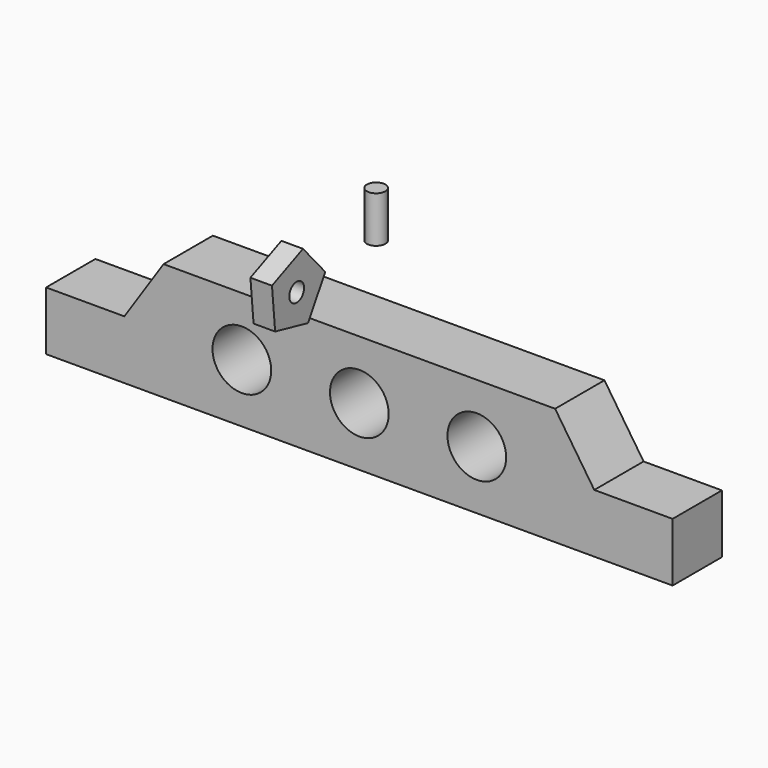
from build123d import *

# Parameters (mm, degrees)
F0_R     = 9.525
F1_DEPTH = 20
F2_R     = 3
F3_DEPTH = 15
F5_DEPTH = 7
F7_D     = 6


with BuildPart() as f1:
    # F0 (on Front) → F1 (new body)
    with BuildSketch(Plane.XZ):
        Polygon((63.5, 16.51), (-63.5, 16.51), (-76.2, -2.54), (-101.6, -2.54), (-101.6, -21.59), (101.6, -21.59), (101.6, -2.54), (76.2, -2.54), align=None)
        with Locations((-38.1, -2.54)):
            Circle(F0_R, mode=Mode.SUBTRACT)
        with Locations((0, -2.54)):
            Circle(F0_R, mode=Mode.SUBTRACT)
        with Locations((38.1, -2.54)):
            Circle(F0_R, mode=Mode.SUBTRACT)
    extrude(amount=F1_DEPTH)


with BuildPart() as f3:
    # F2 (on Top) → F3 (new body)
    with BuildSketch(Plane.XY):
        with Locations((-49.389925, 48.537955)):
            Circle(F2_R)
    extrude(amount=F3_DEPTH)


with BuildPart() as f5:
    # F4 (on Right) → F5 (new body)
    with BuildSketch(Plane.YZ):
        Polygon((-49.537405, 34.615007), (-42.562597, 46.385001), (-51.601192, 56.655564), (-64.162158, 51.233129), (-62.886667, 37.611315), align=None)
    extrude(amount=F5_DEPTH)

    # F7 (through all)
    with Locations(Plane(origin=(0, 0, 0), x_dir=(0, -1, 0), z_dir=(-1, 0, 0))):
        with Locations((54.150004, 45.300003)):
            Hole(F7_D / 2)


solid = Compound([f1.part, f3.part, f5.part])
